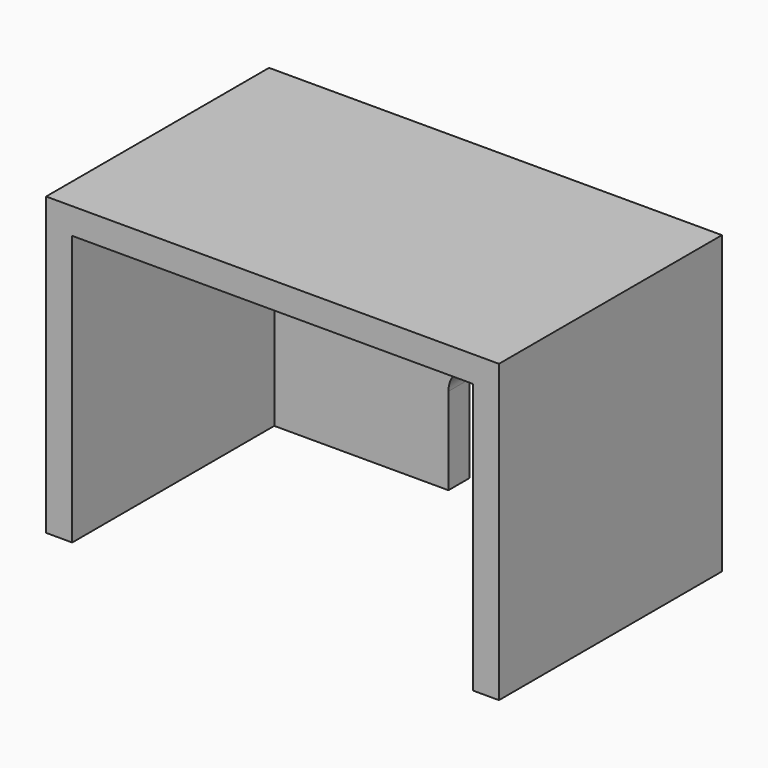
from build123d import *

# Parameters (mm, degrees)
F0_W     = 26
F0_H     = 17
F1_DEPTH = 16
F2_W     = 23
F2_H     = 15.5
F3_DEPTH = 14.5
F5_DEPTH = 25


with BuildPart() as f1:
    # F0 (on Front) → F1 (new body)
    with BuildSketch(Plane.XZ):
        with Locations((13, 8.5)):
            Rectangle(F0_W, F0_H)
    extrude(amount=-F1_DEPTH)

    # F2 (on Front) → F3 (cut)
    with BuildSketch(Plane.XZ):
        with Locations((13, 7.75)):
            Rectangle(F2_W, F2_H)
    extrude(amount=-F3_DEPTH, mode=Mode.SUBTRACT)

    # F4 (on Front) → F5 (cut)
    with BuildSketch(Plane.XZ):
        with BuildLine():
            Line((14.5, 0), (14.5, 5))
            ThreePointArc((14.5, 5), (13, 6.5), (11.5, 5))
            Line((11.5, 5), (11.5, 0))
            Line((11.5, 0), (14.5, 0))
        make_face()
    extrude(amount=-F5_DEPTH, mode=Mode.SUBTRACT)


solid = f1.part
